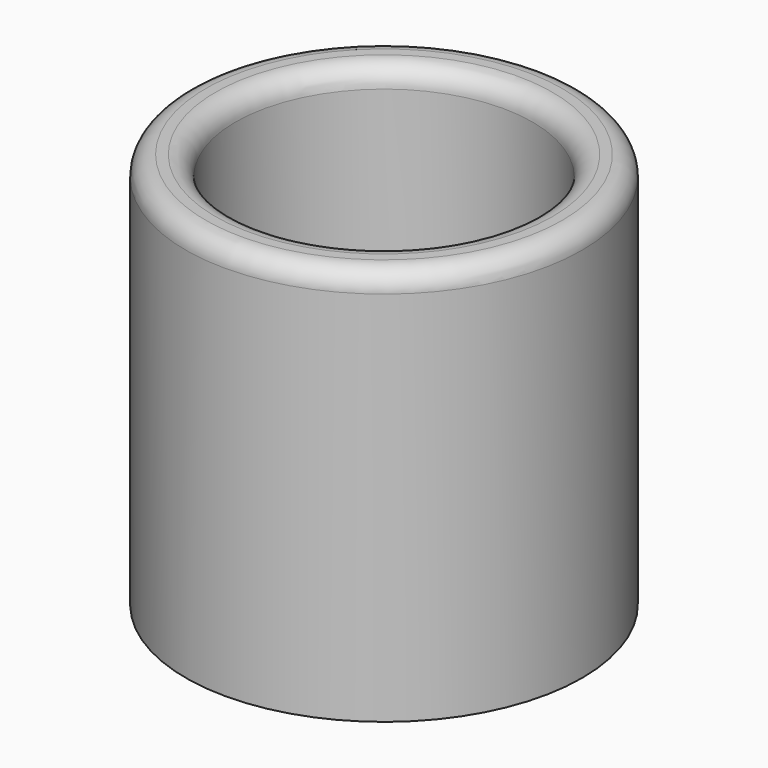
from build123d import *

# Parameters (mm, degrees)
F0_R     = 152.4
F1_DEPTH = 304.8
F2_R     = 114.3
F3_DEPTH = 228.6
F4_R     = 15.24


with BuildPart() as f1:
    # F0 (on Top) → F1 (new body)
    with BuildSketch(Plane.XY):
        with Locations((-36.681142, 40.239949)):
            Circle(F0_R)
    extrude(amount=F1_DEPTH)

    # F2 (on face) → F3 (cut)
    with BuildSketch(Plane.XY.offset(304.8)):
        with Locations((-36.681142, 40.239949)):
            Circle(F2_R)
    extrude(amount=-F3_DEPTH, mode=Mode.SUBTRACT)

    # F4
    f4_edges = [f1.edges().sort_by_distance(p)[0] for p in [
        (-150.981142, 40.239949, 304.8),
        (-189.081142, 40.239949, 304.8),
    ]]
    fillet(f4_edges, radius=F4_R)


solid = f1.part
